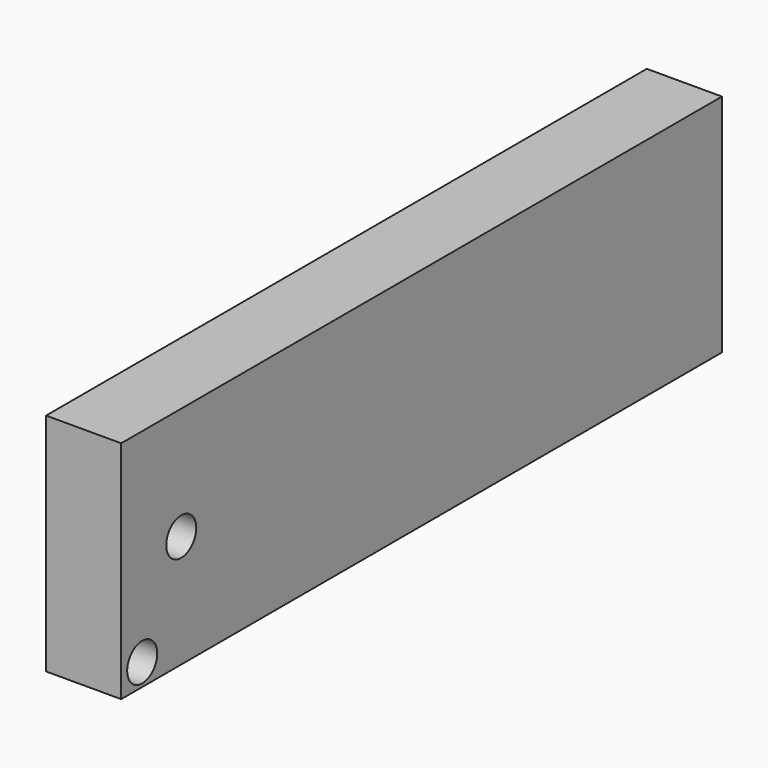
from build123d import *

# Parameters (mm, degrees)
F0_W     = 254
F0_H     = 76.2
F0_R     = 6.35
F1_DEPTH = 25.4


with BuildPart() as f1:
    # F0 (on Right) → F1 (new body)
    with BuildSketch(Plane.YZ):
        Rectangle(F0_W, F0_H)
        with Locations((-118.11, -30.660616)):
            Circle(F0_R, mode=Mode.SUBTRACT)
        with Locations((-101.6, 0)):
            Circle(F0_R, mode=Mode.SUBTRACT)
    extrude(amount=F1_DEPTH)


solid = f1.part
